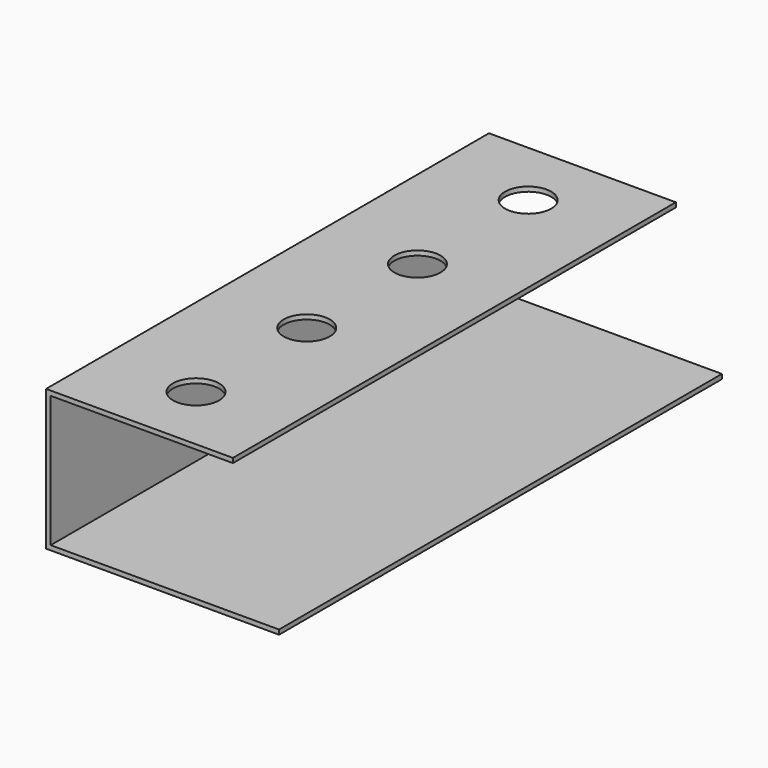
from build123d import *

# Parameters (mm, degrees)
F1_DEPTH = 304.8
F2_R     = 12.7
F3_DEPTH = 25.4


with BuildPart() as f1:
    # F0 (on Front) → F1 (new body)
    with BuildSketch(Plane.XZ):
        Polygon((-128.27, 0), (0, 0), (0, 2.54), (-125.73, 2.54), (-125.73, 74.93), (-25.4, 74.93), (-25.4, 77.47), (-128.27, 77.47), align=None)
    extrude(amount=F1_DEPTH)

    # F2 (on face) → F3 (cut)
    with BuildSketch(Plane.XY.offset(77.47)):
        with Locations((-76.2, -114.3)):
            Circle(F2_R)
        with Locations((-76.2, -266.7)):
            Circle(F2_R)
        with Locations((-76.2, -38.1)):
            Circle(F2_R)
        with Locations((-76.2, -190.5)):
            Circle(F2_R)
    extrude(amount=-F3_DEPTH, mode=Mode.SUBTRACT)


solid = f1.part
